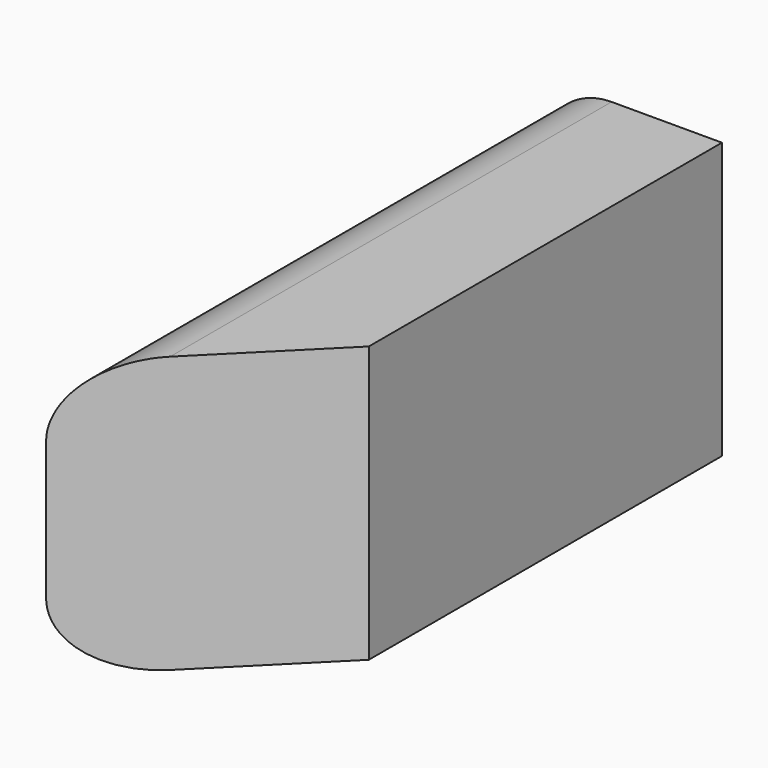
from build123d import *

# Parameters (mm, degrees)
F1_DEPTH = 355.6
F3_DEPTH = 127.001


with BuildPart() as f1:
    # F0 (on Front) → F1 (new body)
    with BuildSketch(Plane.XZ):
        with BuildLine():
            Line((0, -127), (0, 0))
            Line((0, 0), (-50.8, 0))
            ThreePointArc((-50.8, 0), (-73.25064, -9.29936), (-82.55, -31.75))
            Line((-82.55, -31.75), (-82.55, -95.25))
            ThreePointArc((-82.55, -95.25), (-73.25064, -117.70064), (-50.8, -127))
            Line((-50.8, -127), (0, -127))
        make_face()
    extrude(amount=F1_DEPTH)

    # F2 (on face) → F3 (cut, through all)
    with BuildSketch(Plane.XY):
        Polygon((0, -355.6), (0, -203.2), (-152.4, -355.6), align=None)
    extrude(amount=-F3_DEPTH, mode=Mode.SUBTRACT)


solid = f1.part
